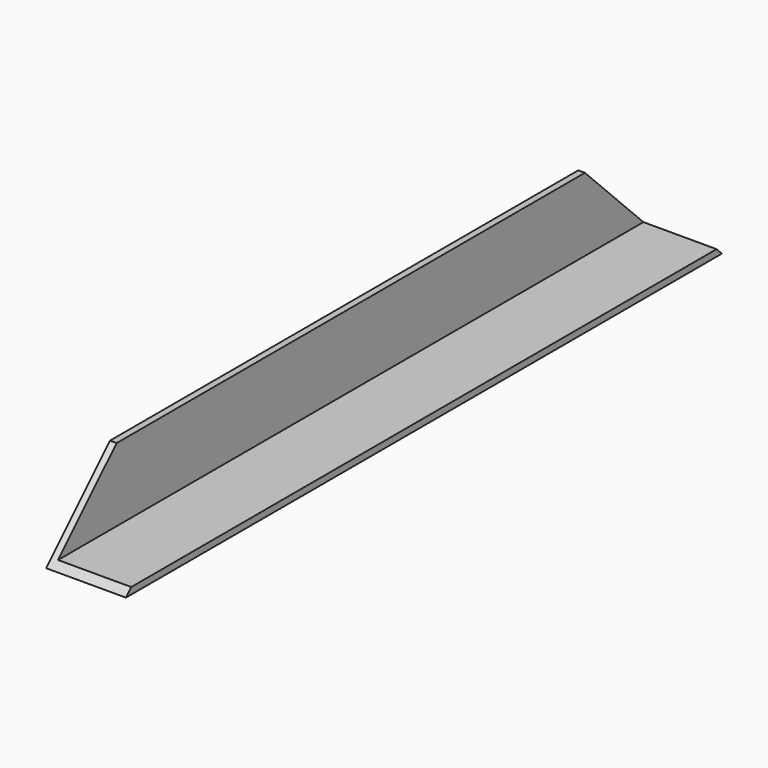
from build123d import *

# Parameters (mm, degrees)
F1_DEPTH = 355.6
F3_DEPTH = 38.101


with BuildPart() as f1:
    # F0 (on Front) → F1 (new body)
    with BuildSketch(Plane.XZ):
        Polygon((0, 38.1), (0, 0), (38.1, 0), (38.1, 3.175), (3.175, 3.175), (3.175, 38.1), align=None)
    extrude(amount=F1_DEPTH)

    # F2 (on face) → F3 (cut, through all)
    with BuildSketch(Plane(origin=(0, 0, 0), x_dir=(0, -1, 0), z_dir=(-1, 0, 0))):
        Polygon((317.5, 38.1), (355.6, 0), (355.6, 38.1), align=None)
        Polygon((0, 38.1), (0, 0), (38.1, 38.1), align=None)
    extrude(amount=-F3_DEPTH, mode=Mode.SUBTRACT)


solid = f1.part
